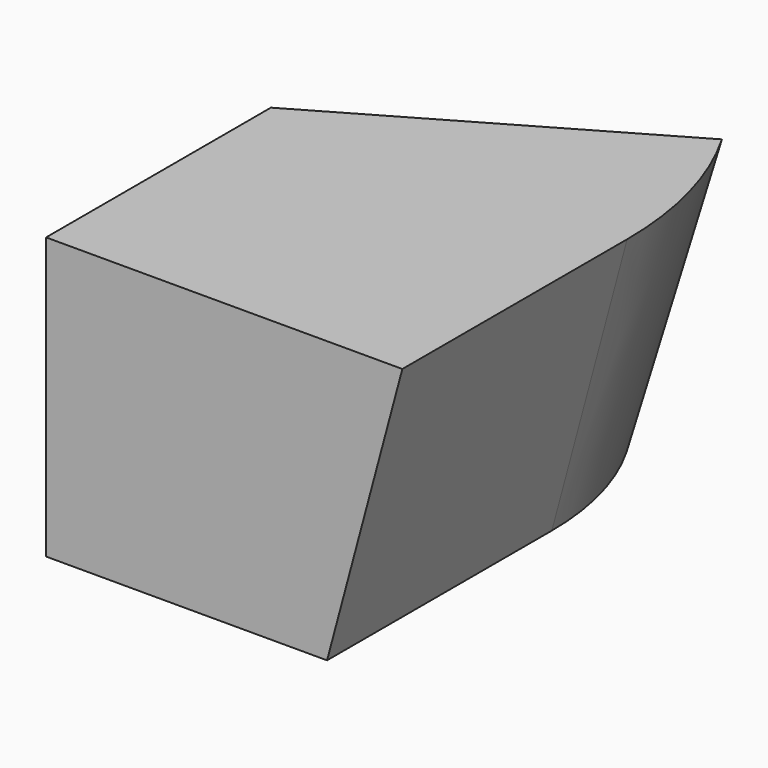
from build123d import *

# Parameters (mm, degrees)
F1_DEPTH = 25.4
F2_ANGLE = 30


with BuildPart() as f1:
    # F0 (on Front) → F1 (new body)
    with BuildSketch(Plane.XZ):
        Polygon((0, 25.4), (0, 0), (25.4, 0), (32.205909, 25.4), align=None)
    extrude(amount=F1_DEPTH)

    # F0 (on Front) → F2 (revolve)
    with BuildSketch(Plane.XZ):
        Polygon((0, 25.4), (0, 0), (25.4, 0), (32.205909, 25.4), align=None)
    revolve(axis=Axis((0, 0, 12.7), (0, 0, 1)), revolution_arc=F2_ANGLE)


solid = f1.part
